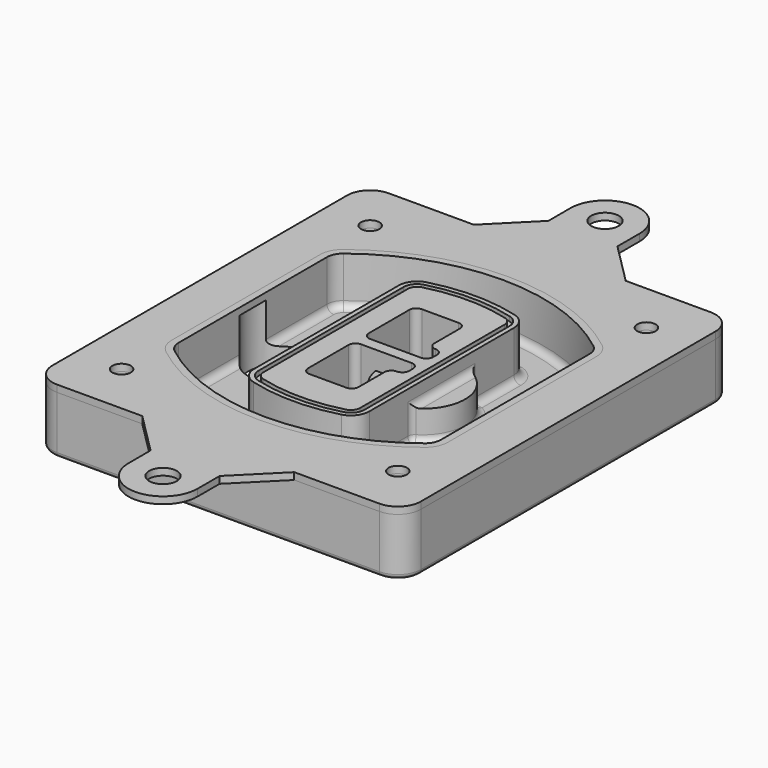
from build123d import *

# Parameters (mm, degrees)
F0_R      = 4
F1_DEPTH  = 25
F2_DEPTH  = 3
F3_DEPTH  = 18
F5_DEPTH  = 21
F6_DEPTH  = 2
F8_DEPTH  = 20
F9_DEPTH  = 16
F10_DEPTH = 25
F7_R      = 6
F7_R_2    = 4
F11_DEPTH = 6
F13_DEPTH = 9
F14_R     = 3
F15_R     = 2
F16_R     = 6
F16_R_2   = 4
F17_DEPTH = 3


with BuildPart() as f1:
    # F0 (on Top) → F1 (new body)
    with BuildSketch(Plane.XY):
        with BuildLine():
            ThreePointArc((-80, -80), (-77.0710678119, -87.0710678119), (-70, -90))
            Line((-70, -90), (70, -90))
            ThreePointArc((70, -90), (77.0710678119, -87.0710678119), (80, -80))
            Line((80, -80), (80, 80))
            ThreePointArc((80, 80), (77.0710678119, 87.0710678119), (70, 90))
            Line((70, 90), (-70, 90))
            ThreePointArc((-70, 90), (-77.0710678119, 87.0710678119), (-80, 80))
            Line((-80, 80), (-80, -80))
        make_face()
        with Locations((-60, -67.5)):
            Circle(F0_R, mode=Mode.SUBTRACT)
        with Locations((60, -67.5)):
            Circle(F0_R, mode=Mode.SUBTRACT)
        with Locations((-60, 67.5)):
            Circle(F0_R, mode=Mode.SUBTRACT)
        with BuildLine():
            ThreePointArc((-64, 40.2934422872), (-62.5820384798, 46.4328484224), (-58.6153846154, 51.3286200352))
            ThreePointArc((-58.6153846154, 51.3286200352), (0, 71.5), (58.6153846154, 51.3286200352))
            ThreePointArc((58.6153846154, 51.3286200352), (62.5820384798, 46.4328484224), (64, 40.2934422872))
            Line((64, 40.2934422872), (64, -40.2934422872))
            ThreePointArc((64, -40.2934422872), (62.5820384798, -46.4328484224), (58.6153846154, -51.3286200352))
            ThreePointArc((58.6153846154, -51.3286200352), (0, -71.5), (-58.6153846154, -51.3286200352))
            ThreePointArc((-58.6153846154, -51.3286200352), (-62.5820384798, -46.4328484224), (-64, -40.2934422872))
            Line((-64, -40.2934422872), (-64, 40.2934422872))
        make_face(mode=Mode.SUBTRACT)
        with Locations((60, 67.5)):
            Circle(F0_R, mode=Mode.SUBTRACT)
        with BuildLine():
            ThreePointArc((58.6153846154, 51.3286200352), (0, 71.5), (-58.6153846154, 51.3286200352))
            ThreePointArc((-58.6153846154, 51.3286200352), (-62.5820384798, 46.4328484224), (-64, 40.2934422872))
            Line((-64, 40.2934422872), (-64, -40.2934422872))
            ThreePointArc((-64, -40.2934422872), (-62.5820384798, -46.4328484224), (-58.6153846154, -51.3286200352))
            ThreePointArc((-58.6153846154, -51.3286200352), (0, -71.5), (58.6153846154, -51.3286200352))
            ThreePointArc((58.6153846154, -51.3286200352), (62.5820384798, -46.4328484224), (64, -40.2934422872))
            Line((64, -40.2934422872), (64, 40.2934422872))
            ThreePointArc((64, 40.2934422872), (62.5820384798, 46.4328484224), (58.6153846154, 51.3286200352))
        make_face()
        with BuildLine():
            Line((-60, -40.2934422872), (-60, 40.2934422872))
            ThreePointArc((-60, 40.2934422872), (-58.9871703427, 44.6787323838), (-56.1538461538, 48.1757121072))
            ThreePointArc((-56.1538461538, 48.1757121072), (0, 67.5), (56.1538461538, 48.1757121072))
            ThreePointArc((56.1538461538, 48.1757121072), (58.9871703427, 44.6787323838), (60, 40.2934422872))
            Line((60, 40.2934422872), (60, -40.2934422872))
            ThreePointArc((60, -40.2934422872), (58.9871703427, -44.6787323838), (56.1538461538, -48.1757121072))
            ThreePointArc((56.1538461538, -48.1757121072), (0, -67.5), (-56.1538461538, -48.1757121072))
            ThreePointArc((-56.1538461538, -48.1757121072), (-58.9871703427, -44.6787323838), (-60, -40.2934422872))
        make_face(mode=Mode.SUBTRACT)
        with BuildLine():
            ThreePointArc((-56.1538461538, 48.1757121072), (-58.9871703427, 44.6787323838), (-60, 40.2934422872))
            Line((-60, 40.2934422872), (-60, -40.2934422872))
            ThreePointArc((-60, -40.2934422872), (-58.9871703427, -44.6787323838), (-56.1538461538, -48.1757121072))
            ThreePointArc((-56.1538461538, -48.1757121072), (0, -67.5), (56.1538461538, -48.1757121072))
            ThreePointArc((56.1538461538, -48.1757121072), (58.9871703427, -44.6787323838), (60, -40.2934422872))
            Line((60, -40.2934422872), (60, 40.2934422872))
            ThreePointArc((60, 40.2934422872), (58.9871703427, 44.6787323838), (56.1538461538, 48.1757121072))
            ThreePointArc((56.1538461538, 48.1757121072), (0, 67.5), (-56.1538461538, 48.1757121072))
        make_face()
        with BuildLine():
            ThreePointArc((54.3076923077, 45.8110311612), (56.2910192399, 43.3631453548), (57, 40.2934422872))
            Line((57, 40.2934422872), (57, -40.2934422872))
            ThreePointArc((57, -40.2934422872), (56.2910192399, -43.3631453548), (54.3076923077, -45.8110311612))
            ThreePointArc((54.3076923077, -45.8110311612), (0, -64.5), (-54.3076923077, -45.8110311612))
            ThreePointArc((-54.3076923077, -45.8110311612), (-56.2910192399, -43.3631453548), (-57, -40.2934422872))
            Line((-57, -40.2934422872), (-57, 40.2934422872))
            ThreePointArc((-57, 40.2934422872), (-56.2910192399, 43.3631453548), (-54.3076923077, 45.8110311612))
            ThreePointArc((-54.3076923077, 45.8110311612), (0, 64.5), (54.3076923077, 45.8110311612))
        make_face(mode=Mode.SUBTRACT)
        with BuildLine():
            Line((57, -40.2934422872), (57, 40.2934422872))
            ThreePointArc((57, 40.2934422872), (56.2910192399, 43.3631453548), (54.3076923077, 45.8110311612))
            ThreePointArc((54.3076923077, 45.8110311612), (0, 64.5), (-54.3076923077, 45.8110311612))
            ThreePointArc((-54.3076923077, 45.8110311612), (-56.2910192399, 43.3631453548), (-57, 40.2934422872))
            Line((-57, 40.2934422872), (-57, -40.2934422872))
            ThreePointArc((-57, -40.2934422872), (-56.2910192399, -43.3631453548), (-54.3076923077, -45.8110311612))
            ThreePointArc((-54.3076923077, -45.8110311612), (0, -64.5), (54.3076923077, -45.8110311612))
            ThreePointArc((54.3076923077, -45.8110311612), (56.2910192399, -43.3631453548), (57, -40.2934422872))
        make_face()
    extrude(amount=-F1_DEPTH)

    # F0 (on Top) → F2 (join)
    with BuildSketch(Plane.XY):
        with BuildLine():
            ThreePointArc((-56.1538461538, 48.1757121072), (-58.9871703427, 44.6787323838), (-60, 40.2934422872))
            Line((-60, 40.2934422872), (-60, -40.2934422872))
            ThreePointArc((-60, -40.2934422872), (-58.9871703427, -44.6787323838), (-56.1538461538, -48.1757121072))
            ThreePointArc((-56.1538461538, -48.1757121072), (0, -67.5), (56.1538461538, -48.1757121072))
            ThreePointArc((56.1538461538, -48.1757121072), (58.9871703427, -44.6787323838), (60, -40.2934422872))
            Line((60, -40.2934422872), (60, 40.2934422872))
            ThreePointArc((60, 40.2934422872), (58.9871703427, 44.6787323838), (56.1538461538, 48.1757121072))
            ThreePointArc((56.1538461538, 48.1757121072), (0, 67.5), (-56.1538461538, 48.1757121072))
        make_face()
        with BuildLine():
            ThreePointArc((54.3076923077, 45.8110311612), (56.2910192399, 43.3631453548), (57, 40.2934422872))
            Line((57, 40.2934422872), (57, -40.2934422872))
            ThreePointArc((57, -40.2934422872), (56.2910192399, -43.3631453548), (54.3076923077, -45.8110311612))
            ThreePointArc((54.3076923077, -45.8110311612), (0, -64.5), (-54.3076923077, -45.8110311612))
            ThreePointArc((-54.3076923077, -45.8110311612), (-56.2910192399, -43.3631453548), (-57, -40.2934422872))
            Line((-57, -40.2934422872), (-57, 40.2934422872))
            ThreePointArc((-57, 40.2934422872), (-56.2910192399, 43.3631453548), (-54.3076923077, 45.8110311612))
            ThreePointArc((-54.3076923077, 45.8110311612), (0, 64.5), (54.3076923077, 45.8110311612))
        make_face(mode=Mode.SUBTRACT)
    extrude(amount=F2_DEPTH)

    # F0 (on Top) → F3 (cut)
    with BuildSketch(Plane.XY):
        with BuildLine():
            Line((57, -40.2934422872), (57, 40.2934422872))
            ThreePointArc((57, 40.2934422872), (56.2910192399, 43.3631453548), (54.3076923077, 45.8110311612))
            ThreePointArc((54.3076923077, 45.8110311612), (0, 64.5), (-54.3076923077, 45.8110311612))
            ThreePointArc((-54.3076923077, 45.8110311612), (-56.2910192399, 43.3631453548), (-57, 40.2934422872))
            Line((-57, 40.2934422872), (-57, -40.2934422872))
            ThreePointArc((-57, -40.2934422872), (-56.2910192399, -43.3631453548), (-54.3076923077, -45.8110311612))
            ThreePointArc((-54.3076923077, -45.8110311612), (0, -64.5), (54.3076923077, -45.8110311612))
            ThreePointArc((54.3076923077, -45.8110311612), (56.2910192399, -43.3631453548), (57, -40.2934422872))
        make_face()
    extrude(amount=-F3_DEPTH, mode=Mode.SUBTRACT)

    # F4 (on face) → F5 (join, through all)
    with BuildSketch(Plane.XY.offset(3)):
        with BuildLine():
            ThreePointArc((-25, -39.2465276821), (-23.3511545998, -44.1109737193), (-19.0842911877, -46.9702398883))
            ThreePointArc((-19.0842911877, -46.9702398883), (0, -49.5), (19.0842911877, -46.9702398883))
            ThreePointArc((19.0842911877, -46.9702398883), (23.3511545998, -44.1109737193), (25, -39.2465276821))
            Line((25, -39.2465276821), (25, 39.2465276821))
            ThreePointArc((25, 39.2465276821), (23.3511545998, 44.1109737193), (19.0842911877, 46.9702398883))
            ThreePointArc((19.0842911877, 46.9702398883), (0, 49.5), (-19.0842911877, 46.9702398883))
            ThreePointArc((-19.0842911877, 46.9702398883), (-23.3511545998, 44.1109737193), (-25, 39.2465276821))
            Line((-25, 39.2465276821), (-25, -39.2465276821))
        make_face()
        with BuildLine():
            ThreePointArc((18.5632183908, 45.0393118368), (21.7633659499, 42.89486221), (23, 39.2465276821))
            Line((23, 39.2465276821), (23, -39.2465276821))
            ThreePointArc((23, -39.2465276821), (21.7633659499, -42.89486221), (18.5632183908, -45.0393118368))
            ThreePointArc((18.5632183908, -45.0393118368), (0, -47.5), (-18.5632183908, -45.0393118368))
            ThreePointArc((-18.5632183908, -45.0393118368), (-21.7633659499, -42.89486221), (-23, -39.2465276821))
            Line((-23, -39.2465276821), (-23, 39.2465276821))
            ThreePointArc((-23, 39.2465276821), (-21.7633659499, 42.89486221), (-18.5632183908, 45.0393118368))
            ThreePointArc((-18.5632183908, 45.0393118368), (0, 47.5), (18.5632183908, 45.0393118368))
        make_face(mode=Mode.SUBTRACT)
        with BuildLine():
            Line((23, -39.2465276821), (23, 39.2465276821))
            ThreePointArc((23, 39.2465276821), (21.7633659499, 42.89486221), (18.5632183908, 45.0393118368))
            ThreePointArc((18.5632183908, 45.0393118368), (0, 47.5), (-18.5632183908, 45.0393118368))
            ThreePointArc((-18.5632183908, 45.0393118368), (-21.7633659499, 42.89486221), (-23, 39.2465276821))
            Line((-23, 39.2465276821), (-23, -39.2465276821))
            ThreePointArc((-23, -39.2465276821), (-21.7633659499, -42.89486221), (-18.5632183908, -45.0393118368))
            ThreePointArc((-18.5632183908, -45.0393118368), (0, -47.5), (18.5632183908, -45.0393118368))
            ThreePointArc((18.5632183908, -45.0393118368), (21.7633659499, -42.89486221), (23, -39.2465276821))
        make_face()
        with BuildLine():
            ThreePointArc((18.0421455939, 43.1083837852), (20.1755772999, 41.6787507007), (21, 39.2465276821))
            Line((21, 39.2465276821), (21, -39.2465276821))
            ThreePointArc((21, -39.2465276821), (20.1755772999, -41.6787507007), (18.0421455939, -43.1083837852))
            ThreePointArc((18.0421455939, -43.1083837852), (0, -45.5), (-18.0421455939, -43.1083837852))
            ThreePointArc((-18.0421455939, -43.1083837852), (-20.1755772999, -41.6787507007), (-21, -39.2465276821))
            Line((-21, -39.2465276821), (-21, 39.2465276821))
            ThreePointArc((-21, 39.2465276821), (-20.1755772999, 41.6787507007), (-18.0421455939, 43.1083837852))
            ThreePointArc((-18.0421455939, 43.1083837852), (0, 45.5), (18.0421455939, 43.1083837852))
        make_face(mode=Mode.SUBTRACT)
        with BuildLine():
            Line((21, -39.2465276821), (21, 39.2465276821))
            ThreePointArc((21, 39.2465276821), (20.1755772999, 41.6787507007), (18.0421455939, 43.1083837852))
            ThreePointArc((18.0421455939, 43.1083837852), (0, 45.5), (-18.0421455939, 43.1083837852))
            ThreePointArc((-18.0421455939, 43.1083837852), (-20.1755772999, 41.6787507007), (-21, 39.2465276821))
            Line((-21, 39.2465276821), (-21, -39.2465276821))
            ThreePointArc((-21, -39.2465276821), (-20.1755772999, -41.6787507007), (-18.0421455939, -43.1083837852))
            ThreePointArc((-18.0421455939, -43.1083837852), (0, -45.5), (18.0421455939, -43.1083837852))
            ThreePointArc((18.0421455939, -43.1083837852), (20.1755772999, -41.6787507007), (21, -39.2465276821))
        make_face()
        with BuildLine():
            Line((-8, -2.5), (14, -2.5))
            ThreePointArc((14, -2.5), (16.1213203436, -3.3786796564), (17, -5.5))
            Line((17, -5.5), (17, -7.5))
            ThreePointArc((17, -7.5), (16.1213203436, -9.6213203436), (14, -10.5))
            ThreePointArc((14, -10.5), (11.8786796564, -11.3786796564), (11, -13.5))
            Line((11, -13.5), (11, -27.5))
            ThreePointArc((11, -27.5), (10.1213203436, -29.6213203436), (8, -30.5))
            Line((8, -30.5), (-8, -30.5))
            ThreePointArc((-8, -30.5), (-10.1213203436, -29.6213203436), (-11, -27.5))
            Line((-11, -27.5), (-11, -5.5))
            ThreePointArc((-11, -5.5), (-10.1213203436, -3.3786796564), (-8, -2.5))
        make_face(mode=Mode.SUBTRACT)
        with BuildLine():
            ThreePointArc((-8, 2.5), (-10.1213203436, 3.3786796564), (-11, 5.5))
            Line((-11, 5.5), (-11, 27.5))
            ThreePointArc((-11, 27.5), (-10.1213203436, 29.6213203436), (-8, 30.5))
            Line((-8, 30.5), (8, 30.5))
            ThreePointArc((8, 30.5), (10.1213203436, 29.6213203436), (11, 27.5))
            Line((11, 27.5), (11, 13.5))
            ThreePointArc((11, 13.5), (11.8786796564, 11.3786796564), (14, 10.5))
            ThreePointArc((14, 10.5), (16.1213203436, 9.6213203436), (17, 7.5))
            Line((17, 7.5), (17, 5.5))
            ThreePointArc((17, 5.5), (16.1213203436, 3.3786796564), (14, 2.5))
            Line((14, 2.5), (-8, 2.5))
        make_face(mode=Mode.SUBTRACT)
    extrude(amount=-F5_DEPTH)

    # F4 (on face) → F6 (cut)
    with BuildSketch(Plane.XY.offset(3)):
        with BuildLine():
            Line((23, -39.2465276821), (23, 39.2465276821))
            ThreePointArc((23, 39.2465276821), (21.7633659499, 42.89486221), (18.5632183908, 45.0393118368))
            ThreePointArc((18.5632183908, 45.0393118368), (0, 47.5), (-18.5632183908, 45.0393118368))
            ThreePointArc((-18.5632183908, 45.0393118368), (-21.7633659499, 42.89486221), (-23, 39.2465276821))
            Line((-23, 39.2465276821), (-23, -39.2465276821))
            ThreePointArc((-23, -39.2465276821), (-21.7633659499, -42.89486221), (-18.5632183908, -45.0393118368))
            ThreePointArc((-18.5632183908, -45.0393118368), (0, -47.5), (18.5632183908, -45.0393118368))
            ThreePointArc((18.5632183908, -45.0393118368), (21.7633659499, -42.89486221), (23, -39.2465276821))
        make_face()
        with BuildLine():
            ThreePointArc((18.0421455939, 43.1083837852), (20.1755772999, 41.6787507007), (21, 39.2465276821))
            Line((21, 39.2465276821), (21, -39.2465276821))
            ThreePointArc((21, -39.2465276821), (20.1755772999, -41.6787507007), (18.0421455939, -43.1083837852))
            ThreePointArc((18.0421455939, -43.1083837852), (0, -45.5), (-18.0421455939, -43.1083837852))
            ThreePointArc((-18.0421455939, -43.1083837852), (-20.1755772999, -41.6787507007), (-21, -39.2465276821))
            Line((-21, -39.2465276821), (-21, 39.2465276821))
            ThreePointArc((-21, 39.2465276821), (-20.1755772999, 41.6787507007), (-18.0421455939, 43.1083837852))
            ThreePointArc((-18.0421455939, 43.1083837852), (0, 45.5), (18.0421455939, 43.1083837852))
        make_face(mode=Mode.SUBTRACT)
    extrude(amount=-F6_DEPTH, mode=Mode.SUBTRACT)

    # F7 (on face) → F8 (join)
    with BuildSketch(Plane(origin=(0, 0, -25), x_dir=(1, 0, 0), z_dir=(0, 0, -1))):
        with BuildLine():
            ThreePointArc((3.28842436, 0), (16.7567035675, 13.4682792075), (30.224982775, 0))
            Line((30.224982775, 0), (35.224982775, 0))
            ThreePointArc((35.224982775, 0), (16.7567035675, 18.4682792075), (-1.71157564, 0))
            Line((-1.71157564, 0), (3.28842436, 0))
        make_face()
        with BuildLine():
            Line((3.28842436, 0), (30.224982775, 0))
            ThreePointArc((30.224982775, 0), (16.7567035675, 13.4682792075), (3.28842436, 0))
        make_face()
        with BuildLine():
            ThreePointArc((3.28842436, 0), (16.7567035675, -13.4682792075), (30.224982775, 0))
            Line((30.224982775, 0), (3.28842436, 0))
        make_face()
        with BuildLine():
            Line((35.224982775, 0), (30.224982775, 0))
            ThreePointArc((30.224982775, 0), (16.7567035675, -13.4682792075), (3.28842436, 0))
            Line((3.28842436, 0), (-1.71157564, 0))
            ThreePointArc((-1.71157564, 0), (16.7567035675, -18.4682792075), (35.224982775, 0))
        make_face()
    extrude(amount=-F8_DEPTH)

    # F7 (on face) → F9 (cut)
    with BuildSketch(Plane(origin=(0, 0, -25), x_dir=(1, 0, 0), z_dir=(0, 0, -1))):
        with BuildLine():
            Line((3.28842436, 0), (30.224982775, 0))
            ThreePointArc((30.224982775, 0), (16.7567035675, 13.4682792075), (3.28842436, 0))
        make_face()
        with BuildLine():
            ThreePointArc((3.28842436, 0), (16.7567035675, -13.4682792075), (30.224982775, 0))
            Line((30.224982775, 0), (3.28842436, 0))
        make_face()
    extrude(amount=-F9_DEPTH, mode=Mode.SUBTRACT)

    # F7 (on face) → F10 (cut)
    with BuildSketch(Plane(origin=(0, 0, -25), x_dir=(1, 0, 0), z_dir=(0, 0, -1))):
        with BuildLine():
            Line((-59.0318229325, 0), (-32.0952645175, 0))
            ThreePointArc((-32.0952645175, 0), (-45.563543725, 13.4682792075), (-59.0318229325, 0))
        make_face()
        with BuildLine():
            ThreePointArc((-59.0318229325, 0), (-45.563543725, -13.4682792075), (-32.0952645175, 0))
            Line((-32.0952645175, 0), (-59.0318229325, 0))
        make_face()
    extrude(amount=-F10_DEPTH, mode=Mode.SUBTRACT)

    # F7 (on face) → F11 (cut)
    with BuildSketch(Plane(origin=(0, 0, -25), x_dir=(1, 0, 0), z_dir=(0, 0, -1))):
        with Locations((60, -67.5)):
            Circle(F7_R)
        with Locations((60, -67.5)):
            Circle(F7_R_2, mode=Mode.SUBTRACT)
        with Locations((60, -67.5)):
            Circle(F7_R)
        with Locations((60, -67.5)):
            Circle(F7_R_2, mode=Mode.SUBTRACT)
        with Locations((-60, -67.5)):
            Circle(F7_R)
        with Locations((-60, -67.5)):
            Circle(F7_R_2, mode=Mode.SUBTRACT)
        with Locations((-60, -67.5)):
            Circle(F7_R)
        with Locations((-60, -67.5)):
            Circle(F7_R_2, mode=Mode.SUBTRACT)
        with Locations((-60, 67.5)):
            Circle(F7_R)
        with Locations((-60, 67.5)):
            Circle(F7_R_2, mode=Mode.SUBTRACT)
        with Locations((-60, 67.5)):
            Circle(F7_R)
        with Locations((-60, 67.5)):
            Circle(F7_R_2, mode=Mode.SUBTRACT)
        with Locations((60, 67.5)):
            Circle(F7_R)
        with Locations((60, 67.5)):
            Circle(F7_R_2, mode=Mode.SUBTRACT)
        with Locations((60, 67.5)):
            Circle(F7_R)
        with Locations((60, 67.5)):
            Circle(F7_R_2, mode=Mode.SUBTRACT)
    extrude(amount=-F11_DEPTH, mode=Mode.SUBTRACT)

    # F12 (on face) → F13 (cut, through all)
    with BuildSketch(Plane(origin=(0, 0, -9), x_dir=(1, 0, 0), z_dir=(0, 0, -1))):
        with BuildLine():
            Line((11, 13.5), (11, 17.5481537753))
            ThreePointArc((11, 17.5481537753), (2.5696536419, 11.8239143813), (-1.5415842455, 2.5))
            Line((-1.5415842455, 2.5), (3.5224848595, 2.5))
            ThreePointArc((3.5224848595, 2.5), (6.1857188154, 8.3455872281), (11.2536447004, 12.2927168648))
            ThreePointArc((11.2536447004, 12.2927168648), (11.0640958889, 12.8831798879), (11, 13.5))
        make_face()
        with BuildLine():
            ThreePointArc((11.2536447004, -12.2927168648), (6.1857188154, -8.3455872281), (3.5224848595, -2.5))
            Line((3.5224848595, -2.5), (-1.5415842455, -2.5))
            ThreePointArc((-1.5415842455, -2.5), (2.5696536419, -11.8239143813), (11, -17.5481537753))
            Line((11, -17.5481537753), (11, -13.5))
            ThreePointArc((11, -13.5), (11.0640958889, -12.8831798879), (11.2536447004, -12.2927168648))
        make_face()
        with BuildLine():
            ThreePointArc((11.2536447004, 12.2927168648), (6.1857188154, 8.3455872281), (3.5224848595, 2.5))
            Line((3.5224848595, 2.5), (14, 2.5))
            ThreePointArc((14, 2.5), (16.1213203436, 3.3786796564), (17, 5.5))
            Line((17, 5.5), (17, 7.5))
            ThreePointArc((17, 7.5), (16.1213203436, 9.6213203436), (14, 10.5))
            ThreePointArc((14, 10.5), (12.3601599782, 10.9878446101), (11.2536447004, 12.2927168648))
        make_face()
        with BuildLine():
            Line((14, -2.5), (3.5224848595, -2.5))
            ThreePointArc((3.5224848595, -2.5), (6.1857188154, -8.3455872281), (11.2536447004, -12.2927168648))
            ThreePointArc((11.2536447004, -12.2927168648), (12.3601599782, -10.9878446101), (14, -10.5))
            ThreePointArc((14, -10.5), (16.1213203436, -9.6213203436), (17, -7.5))
            Line((17, -7.5), (17, -5.5))
            ThreePointArc((17, -5.5), (16.1213203436, -3.3786796564), (14, -2.5))
        make_face()
    extrude(amount=F13_DEPTH, mode=Mode.SUBTRACT)

    # F14
    f14_edges = [f1.edges().sort_by_distance(p)[0] for p in [
        (-57, -23.703476, -18),
        (-57, 23.703476, -18),
        (25, 0, -5),
        (25, 16.526506, -11.5),
        (25, -16.526506, -11.5),
        (25, -27.886517, -18),
        (35.224983, 0, -18),
    ]]
    fillet(f14_edges, radius=F14_R)

    # F15
    f15_edges = [f1.edges().sort_by_distance(p)[0] for p in [
        (0, -90, -25),
    ]]
    fillet(f15_edges, radius=F15_R)


with BuildPart() as f17:
    # F16 (on face) → F17 (new body, through all)
    with BuildSketch(Plane.XY):
        with BuildLine():
            Line((-15, 108), (-33, 90))
            Line((-33, 90), (33, 90))
            Line((33, 90), (15, 108))
            Line((15, 108), (15, 120))
            ThreePointArc((15, 120), (0, 135), (-15, 120))
            Line((-15, 120), (-15, 108))
        make_face()
        with Locations((0, 120)):
            Circle(F16_R, mode=Mode.SUBTRACT)
        with BuildLine():
            Line((33, 90), (-33, 90))
            Line((-33, 90), (-70, 90))
            ThreePointArc((-70, 90), (-77.0710678119, 87.0710678119), (-80, 80))
            Line((-80, 80), (-80, -80))
            ThreePointArc((-80, -80), (-77.0710678119, -87.0710678119), (-70, -90))
            Line((-70, -90), (-33, -90))
            Line((-33, -90), (33, -90))
            Line((33, -90), (70, -90))
            ThreePointArc((70, -90), (77.0710678119, -87.0710678119), (80, -80))
            Line((80, -80), (80, 80))
            ThreePointArc((80, 80), (77.0710678119, 87.0710678119), (70, 90))
            Line((70, 90), (33, 90))
        make_face()
        with Locations((-60, -67.5)):
            Circle(F16_R_2, mode=Mode.SUBTRACT)
        with Locations((60, -67.5)):
            Circle(F16_R_2, mode=Mode.SUBTRACT)
        with Locations((-60, 67.5)):
            Circle(F16_R_2, mode=Mode.SUBTRACT)
        with BuildLine():
            ThreePointArc((-60, 40.2934422872), (-58.9871703427, 44.6787323838), (-56.1538461538, 48.1757121072))
            ThreePointArc((-56.1538461538, 48.1757121072), (0, 67.5), (56.1538461538, 48.1757121072))
            ThreePointArc((56.1538461538, 48.1757121072), (58.9871703427, 44.6787323838), (60, 40.2934422872))
            Line((60, 40.2934422872), (60, -40.2934422872))
            ThreePointArc((60, -40.2934422872), (58.9871703427, -44.6787323838), (56.1538461538, -48.1757121072))
            ThreePointArc((56.1538461538, -48.1757121072), (0, -67.5), (-56.1538461538, -48.1757121072))
            ThreePointArc((-56.1538461538, -48.1757121072), (-58.9871703427, -44.6787323838), (-60, -40.2934422872))
            Line((-60, -40.2934422872), (-60, 40.2934422872))
        make_face(mode=Mode.SUBTRACT)
        with Locations((60, 67.5)):
            Circle(F16_R_2, mode=Mode.SUBTRACT)
        with BuildLine():
            Line((33, -90), (-33, -90))
            Line((-33, -90), (-15, -108))
            Line((-15, -108), (-15, -120))
            ThreePointArc((-15, -120), (0, -135), (15, -120))
            Line((15, -120), (15, -108))
            Line((15, -108), (33, -90))
        make_face()
        with Locations((0, -120)):
            Circle(F16_R, mode=Mode.SUBTRACT)
    extrude(amount=F17_DEPTH)


solid = Compound([f1.part, f17.part])
